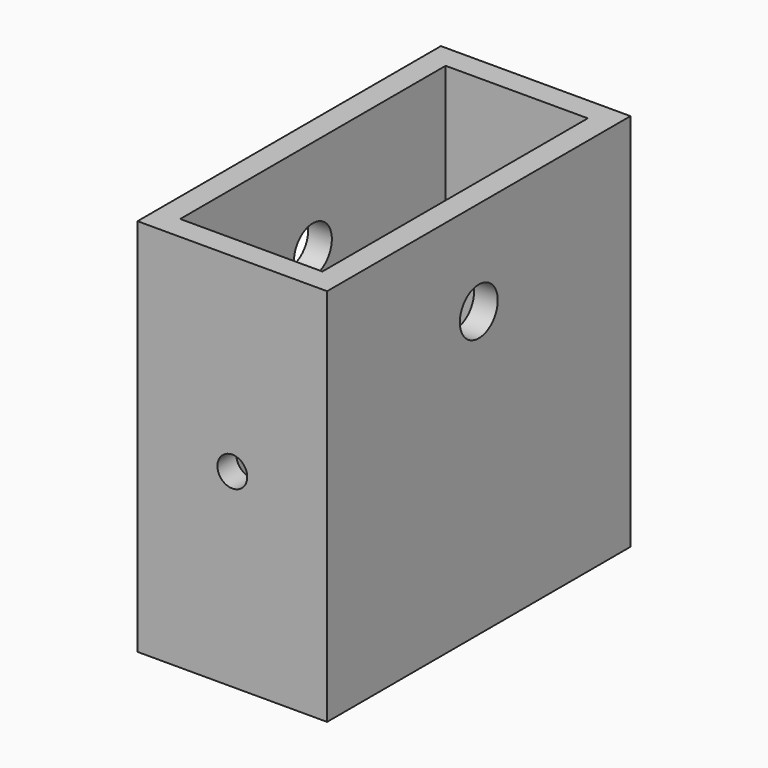
from build123d import *

# Parameters (mm, degrees)
F0_W     = 50.8
F0_H     = 101.6
F1_DEPTH = 101.6
F2_T     = -6.35
F4_D     = 12.7
F6_D     = 25.4
F6_DEPTH = 25.4
F8_D     = 8.001


with BuildPart() as f1:
    # F0 (on Top) → F1 (new body)
    with BuildSketch(Plane.XY):
        Rectangle(F0_W, F0_H)
    extrude(amount=F1_DEPTH)

    # F2
    f2_openings = [f1.faces().sort_by_distance(p)[0] for p in [
        (0, 0, 101.6),
    ]]
    offset(amount=F2_T, openings=f2_openings)

    # F4 (through all)
    with Locations(Plane.YZ.offset(25.4)):
        with Locations((0, 76.2)):
            Hole(F4_D / 2)

    # F6
    with Locations(Plane(origin=(0, 0, 0), x_dir=(1, 0, 0), z_dir=(0, 0, -1))):
        with Locations((0, 0)):
            Hole(F6_D / 2, depth=F6_DEPTH)

    # F8 (through all)
    with Locations(Plane.XZ.offset(50.8)):
        with Locations((0, 50.8)):
            Hole(F8_D / 2)


solid = f1.part
